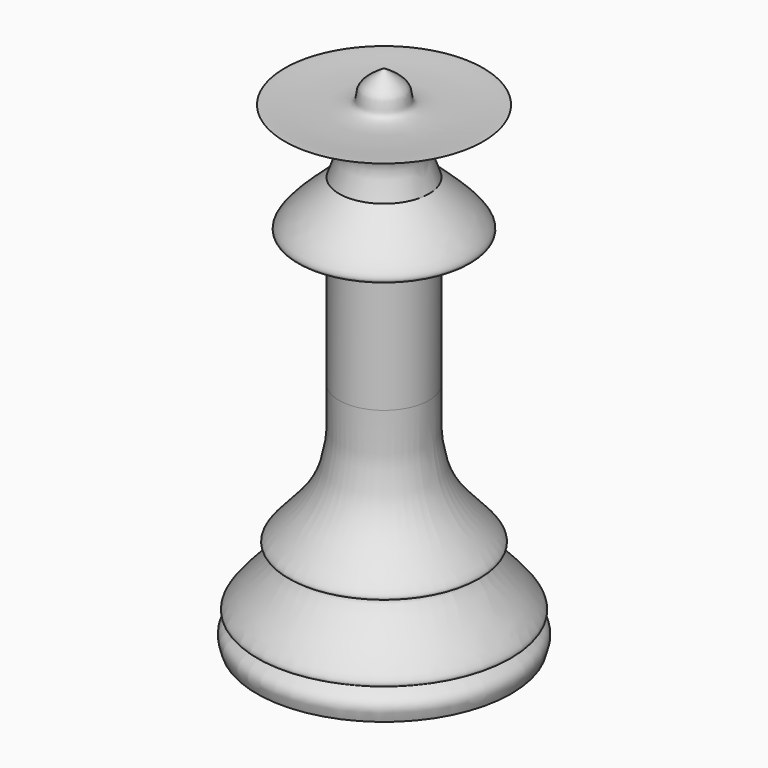
from build123d import *


with BuildPart() as f2:
    # F0 (on Front) → F2 (revolve)
    with BuildSketch(Plane.XZ):
        with BuildLine():
            Line((0, 33.02), (0, 0))
            Line((0, 0), (8.255, 0))
            add(Edge.make_bspline(
                [(8.255, 0), (8.3962154134, 0.4070135709), (8.6758880476, 1.2130910584), (6.6903106392, 2.1095410402), (9.731371276, 1.5315078045), (4.4044761975, 5.9470687322), (7.1716987257, 5.6758748709), (2.7204556998, 9.0384188817), (2.8455468029, 12.8550053089), (2.9161481652, 15.0091666728)],
                knots=[0, 0, 0, 0, 0.1038342262, 0.2056403818, 0.2954573783, 0.4970048113, 0.5761971009, 0.7607968149, 1, 1, 1, 1], degree=3))
            add(Edge.make_bspline(
                [(2.9161481652, 15.0091666728), (2.9161481652, 17.929016302), (2.9161481652, 20.8488659312), (2.9161481652, 23.7687155604)],
                knots=[0, 0, 0, 0, 8.7595488876, 8.7595488876, 8.7595488876, 8.7595488876], degree=3))
            add(Edge.make_bspline(
                [(2.9161481652, 23.7687155604), (4.1868333297, 23.5831874769), (7.0152454326, 23.1702215939), (4.3719334073, 25.5149129405), (2.9161481652, 26.8062353134)],
                knots=[0, 0, 0, 0, 0.4492573904, 1, 1, 1, 1], degree=3))
            add(Edge.make_bspline(
                [(2.9161481652, 26.8062353134), (2.5169608921, 27.764287607), (1.638570537, 29.8724291152), (9.5258550313, 31.4830057878), (1.0489495648, 30.2774869699), (1.6664798147, 31.9753539664), (0.6112867744, 32.63681386), (0, 33.02)],
                knots=[0, 0, 0, 0, 0.2013577989, 0.4430767768, 0.7102765947, 0.832161457, 1, 1, 1, 1], degree=3))
        make_face()
    revolve(axis=Axis((0, 0, 16.6577342898), (0, 0, 1)))


solid = f2.part
